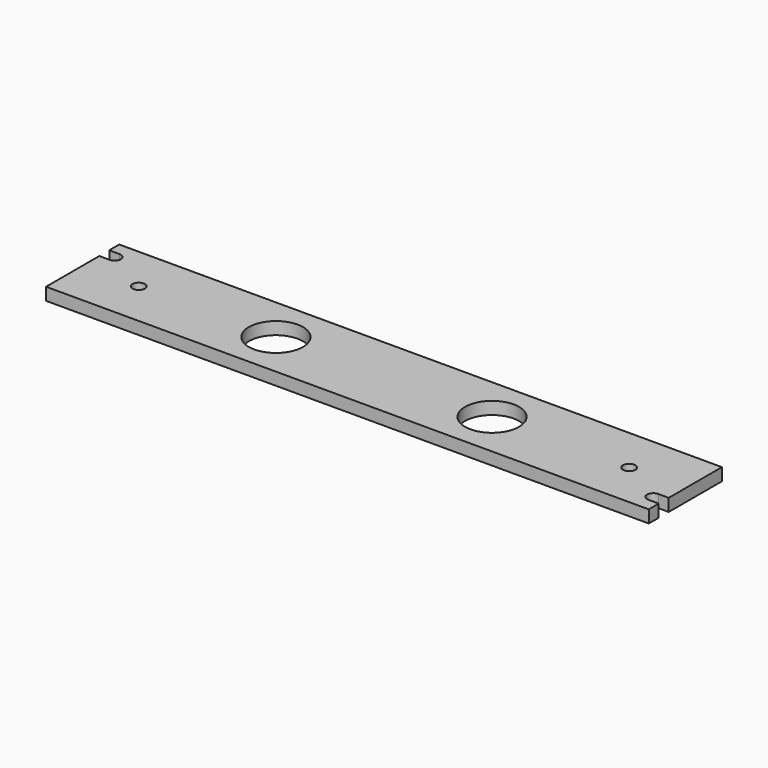
from build123d import *

# Parameters (mm, degrees)
F0_W     = 145
F0_H     = 22
F0_R     = 1.5
F0_R_2   = 6.5
F1_DEPTH = 3
F3_DEPTH = 25


with BuildPart() as f1:
    # F0 (on Top) → F1 (new body)
    with BuildSketch(Plane.XY):
        with Locations((72.5, -11)):
            Rectangle(F0_W, F0_H)
        with Locations((13.5, -11)):
            Circle(F0_R, mode=Mode.SUBTRACT)
        with Locations((46.5, -11)):
            Circle(F0_R_2, mode=Mode.SUBTRACT)
        with Locations((98.5, -11)):
            Circle(F0_R_2, mode=Mode.SUBTRACT)
        with Locations((131.5, -11)):
            Circle(F0_R, mode=Mode.SUBTRACT)
    extrude(amount=F1_DEPTH)

    # F2 (on Top) → F3 (cut)
    with BuildSketch(Plane.XY):
        with BuildLine():
            Line((-2.5, -5.999965), (2.492759, -5.999965))
            ThreePointArc((2.492759, -5.999965), (4, -4.499983), (2.492759, -3))
            Line((2.492759, -3), (-2.5, -3))
            Line((-2.5, -3), (-2.5, -5.999965))
        make_face()
        with BuildLine():
            Line((147.5, -16), (142.5, -16))
            ThreePointArc((142.5, -16), (141, -17.5), (142.5, -19))
            Line((142.5, -19), (147.5, -19))
            Line((147.5, -19), (147.5, -16))
        make_face()
    extrude(amount=F3_DEPTH, mode=Mode.SUBTRACT)


solid = f1.part
